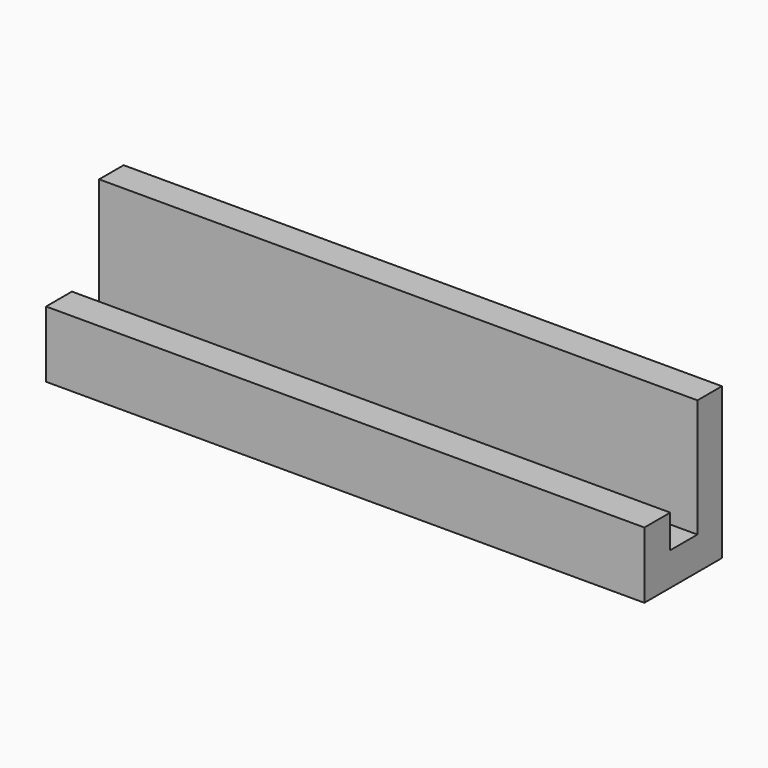
from build123d import *

# Parameters (mm, degrees)
F0_W     = 4.4976044446
F0_H     = 4.615961574
F0_W_2   = 4.7343205661
F1_DEPTH = 83.312
F2_W     = 8.285057731
F2_H     = 4.7343205661
F2_W_2   = 8.5217729211
F2_W_3   = 6.1546228826
F3_DEPTH = 27.94


with BuildPart() as f1:
    # F0 (on Right) → F1 (new body)
    with BuildSketch(Plane.YZ):
        with Locations((-17.8720569238, -6.923942361)):
            Rectangle(F0_W, F0_H)
        with Locations((-13.2560944185, -6.923942361)):
            Rectangle(F0_W_2, F0_H)
        with Locations((-17.8720569238, -2.307980787)):
            Rectangle(F0_W, F0_H)
        Polygon((-10.8889341354, -4.615961574), (-10.8889341354, -9.231923148), (-6.6280476749, -9.231923148), (-6.6280476749, 11.8357995525), (-10.8889341354, 11.8357995525), align=None)
    extrude(amount=F1_DEPTH)

    # F2 (on face) → F3 (cut)
    with BuildSketch(Plane.XY.offset(-4.615961574)):
        with Locations((13.0246370099, -13.2560944185)):
            Rectangle(F2_W, F2_H)
        with Locations((39.4184701145, -13.2560944185)):
            Rectangle(F2_W_2, F2_H)
        with Locations((64.0369299799, -13.2560944185)):
            Rectangle(F2_W_3, F2_H)
    extrude(amount=-F3_DEPTH, mode=Mode.SUBTRACT)


solid = f1.part
